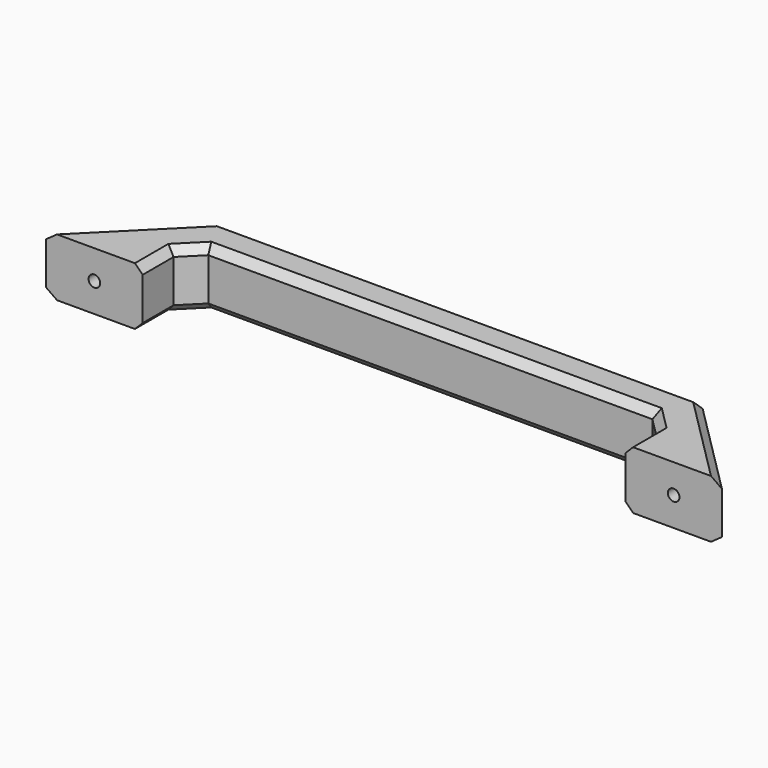
from build123d import *

# Parameters (mm, degrees)
CYLINDER001_R     = 3.5
CYLINDER001_DEPTH = 10
CYLINDER002_R     = 1.5
CYLINDER002_DEPTH = 7.5
CYLINDER003_R     = 3.5
CYLINDER003_DEPTH = 10
CYLINDER_R        = 1.5
CYLINDER_DEPTH    = 7.5
EXTRUDE_DEPTH     = 15
CHAMFER_SIZE      = 2


with BuildPart() as screwheadhole000:
    # Cylinder001 → Cylinder001 (new body)
    with BuildSketch(Plane(origin=(12.5, 17.5, 7.5), x_dir=(1, 0, 0), z_dir=(0, -1, 0))):
        Circle(CYLINDER001_R)
    extrude(amount=CYLINDER001_DEPTH)


with BuildPart() as screwhole001:
    # Cylinder002 → Cylinder002 (new body)
    with BuildSketch(Plane(origin=(162.5, 7.5, 7.5), x_dir=(1, 0, 0), z_dir=(0, -1, 0))):
        Circle(CYLINDER002_R)
    extrude(amount=CYLINDER002_DEPTH)


with BuildPart() as screwheadhole001:
    # Cylinder003 → Cylinder003 (new body)
    with BuildSketch(Plane(origin=(162.5, 17.5, 7.5), x_dir=(1, 0, 0), z_dir=(0, -1, 0))):
        Circle(CYLINDER003_R)
    extrude(amount=CYLINDER003_DEPTH)


with BuildPart() as fusion:
    # Cylinder → Cylinder (new body)
    with BuildSketch(Plane(origin=(12.5, 7.5, 7.5), x_dir=(1, 0, 0), z_dir=(0, -1, 0))):
        Circle(CYLINDER_R)
    extrude(amount=CYLINDER_DEPTH)

    # Fusion: union screwheadhole000, screwhole001, screwheadhole001
    add(screwheadhole000.part)
    add(screwhole001.part)
    add(screwheadhole001.part)


with BuildPart() as cut:
    # Sketch → Extrude (new body)
    with BuildSketch(Plane.XY):
        Polygon((0, 0), (25, 0), (25, 10), (30, 15), (145, 15), (150, 10), (150, 0), (175, 0), (150, 25), (25, 25), align=None)
    extrude(amount=EXTRUDE_DEPTH)

    # Chamfer
    chamfer_edges = [cut.edges().sort_by_distance(p)[0] for p in [
        (25, 5, 0),
        (25, 5, 15),
        (27.5, 12.5, 0),
        (27.5, 12.5, 15),
        (87.5, 15, 0),
        (87.5, 15, 15),
        (147.5, 12.5, 0),
        (147.5, 12.5, 15),
        (150, 5, 0),
        (150, 5, 15),
        (162.5, 12.5, 0),
        (162.5, 12.5, 15),
        (87.5, 25, 0),
        (87.5, 25, 15),
        (12.5, 12.5, 0),
        (12.5, 12.5, 15),
    ]]
    chamfer(chamfer_edges, length=CHAMFER_SIZE)

    # Cut: cut Fusion
    add(fusion.part, mode=Mode.SUBTRACT)


solid = cut.part
